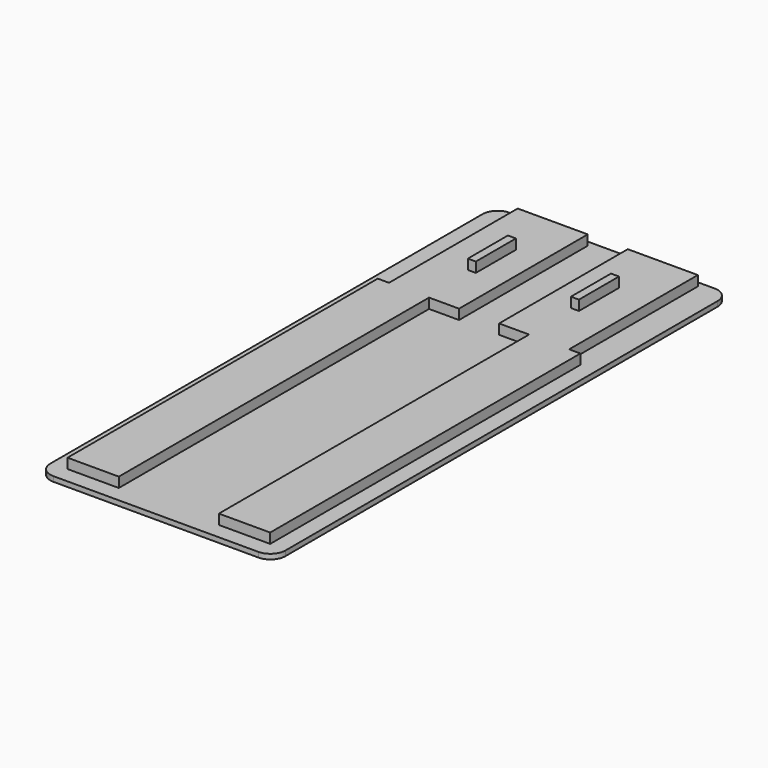
from build123d import *

# Parameters (mm, degrees)
F0_W     = 47
F0_H     = 114
F1_DEPTH = 1
F0_W_2   = 36
F0_H_2   = 32.15
F2_DEPTH = 3
F3_R     = 3
F4_W     = 8
F4_H     = 32.15
F5_DEPTH = 2
F4_W_2   = 1.6
F4_H_2   = 10
F6_DEPTH = 2


with BuildPart() as f1:
    # F0 (on Top) → F1 (new body)
    with BuildSketch(Plane.XY):
        Rectangle(F0_W, F0_H)
        Polygon((18, 23.75), (20.25, 23.75), (20.25, -53.75), (-20.25, -53.75), (-20.25, 23.75), (-18, 23.75), (-18, 55.9), (18, 55.9), align=None, mode=Mode.SUBTRACT)
    extrude(amount=F1_DEPTH)

    # F0 (on Top) → F2 (join)
    with BuildSketch(Plane.XY):
        Polygon((20.25, -53.75), (20.25, 23.75), (18, 23.75), (-18, 23.75), (-20.25, 23.75), (-20.25, -53.75), align=None)
        with Locations((0, 39.825)):
            Rectangle(F0_W_2, F0_H_2)
    extrude(amount=F2_DEPTH)

    # F3
    f3_edges = [f1.edges().sort_by_distance(p)[0] for p in [
        (23.5, -57, 0.5),
        (-23.5, -57, 0.5),
        (23.5, 57, 0.5),
        (-23.5, 57, 0.5),
    ]]
    fillet(f3_edges, radius=F3_R)

    # F4 (on face) → F5 (cut)
    with BuildSketch(Plane.XY.offset(3)):
        Polygon((-10, -53.75), (10, -53.75), (10, 23.75), (4, 23.75), (-4, 23.75), (-10, 23.75), align=None)
        with Locations((0, 39.825)):
            Rectangle(F4_W, F4_H)
    extrude(amount=-F5_DEPTH, mode=Mode.SUBTRACT)

    # F4 (on face) → F6 (join)
    with BuildSketch(Plane.XY.offset(3)):
        with Locations((-10.3, 39.825)):
            Rectangle(F4_W_2, F4_H_2)
        with Locations((10.3, 39.825)):
            Rectangle(F4_W_2, F4_H_2)
    extrude(amount=F6_DEPTH)


solid = f1.part
